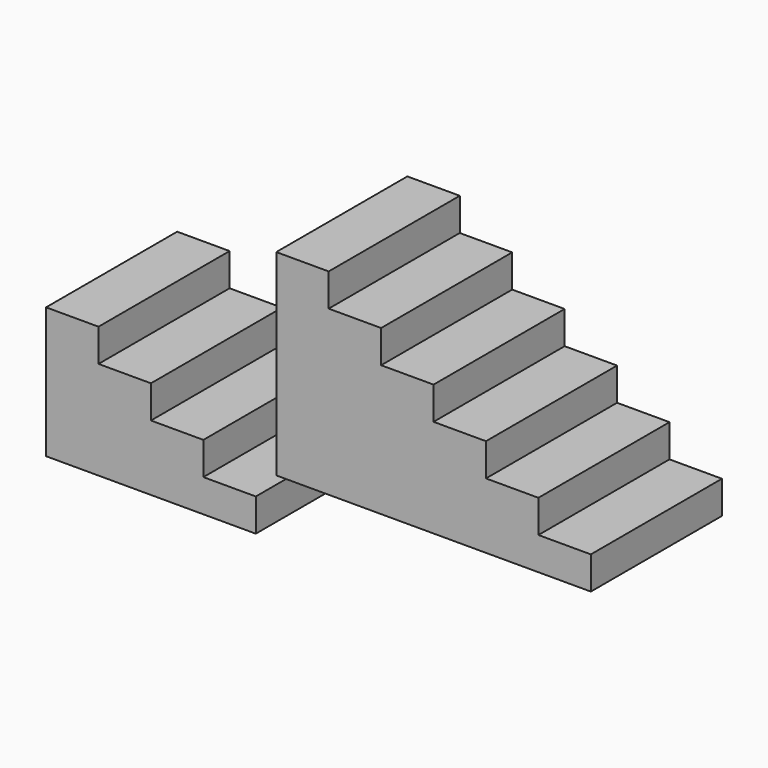
from build123d import *

# Parameters (mm, degrees)
F1_DEPTH = 25
F3_DEPTH = 25


with BuildPart() as f1:
    # F0 (on Front) → F1 (new body)
    with BuildSketch(Plane.XZ):
        Polygon((-7.447419, 21.20217), (-7.447419, 1.20217), (24.552581, 1.20217), (24.552581, 6.20217), (16.552581, 6.20217), (16.552581, 11.20217), (8.552581, 11.20217), (8.552581, 16.20217), (0.552581, 16.20217), (0.552581, 21.20217), align=None)
    extrude(amount=F1_DEPTH)


with BuildPart() as f3:
    # F2 (on Front) → F3 (new body)
    with BuildSketch(Plane.XZ):
        Polygon((27.673446, 40.048658), (27.673446, 10.048658), (28.946173, 10.048658), (75.673446, 10.048658), (75.673446, 15.048658), (67.673446, 15.048658), (67.673446, 20.048658), (59.673446, 20.048658), (59.673446, 25.048658), (51.673446, 25.048658), (51.673446, 30.048658), (43.673446, 30.048658), (43.673446, 35.048658), (35.673446, 35.048658), (35.673446, 40.048658), align=None)
    extrude(amount=F3_DEPTH)


solid = Compound([f1.part, f3.part])
